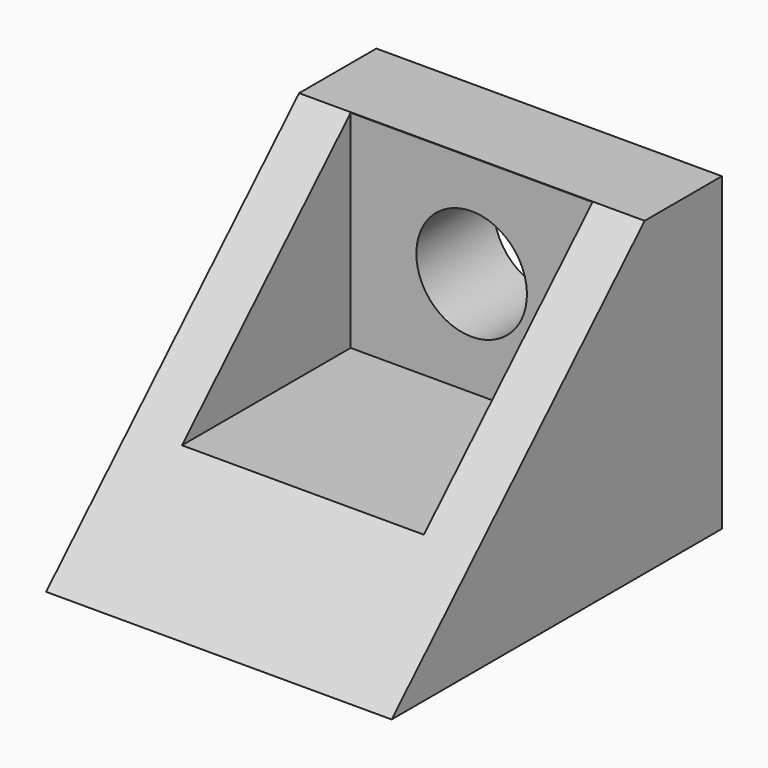
from build123d import *

# Parameters (mm, degrees)
PAD019_DEPTH    = 5
SKETCH047_W     = 7.74745
SKETCH047_H     = 7
POCKET015_DEPTH = 7
SKETCH048_R     = 1.6
POCKET016_DEPTH = 5


with BuildPart() as part:
    # Sketch046 → Pad019 (new body, symmetric)
    with BuildSketch(Plane.YZ):
        Polygon((13.031275, 70.374863), (10.236371, 70.374863), (1.084429, 61.39085), (13.031275, 61.39085), align=None)
    extrude(amount=PAD019_DEPTH, both=True)

    # Sketch047 (on DatumPlane) → Pocket015 (cut)
    with BuildSketch(Plane(origin=(0, 0, 71.374863), x_dir=(0, -1, 0), z_dir=(0, 0, 1))):
        with Locations((-6.354073, 0)):
            Rectangle(SKETCH047_W, SKETCH047_H)
    extrude(amount=-POCKET015_DEPTH, mode=Mode.SUBTRACT)

    # Sketch048 (on Face9 of Pocket015) → Pocket016 (cut)
    with BuildSketch(Plane(origin=(0, 10.227798, 0), x_dir=(0, 0, -1), z_dir=(0, -1, 0))):
        with Locations((-67.397021, 0)):
            Circle(SKETCH048_R)
    extrude(amount=-POCKET016_DEPTH, mode=Mode.SUBTRACT)


with BuildPart() as part_1:
    # Body021 placement: moved
    add(part.part.moved(Location((20, 0, 0))))


with BuildPart() as part_2:
    # Body022 placement: moved
    add(part_1.part.moved(Location((-40, 0, 0))))


solid = part_2.part
